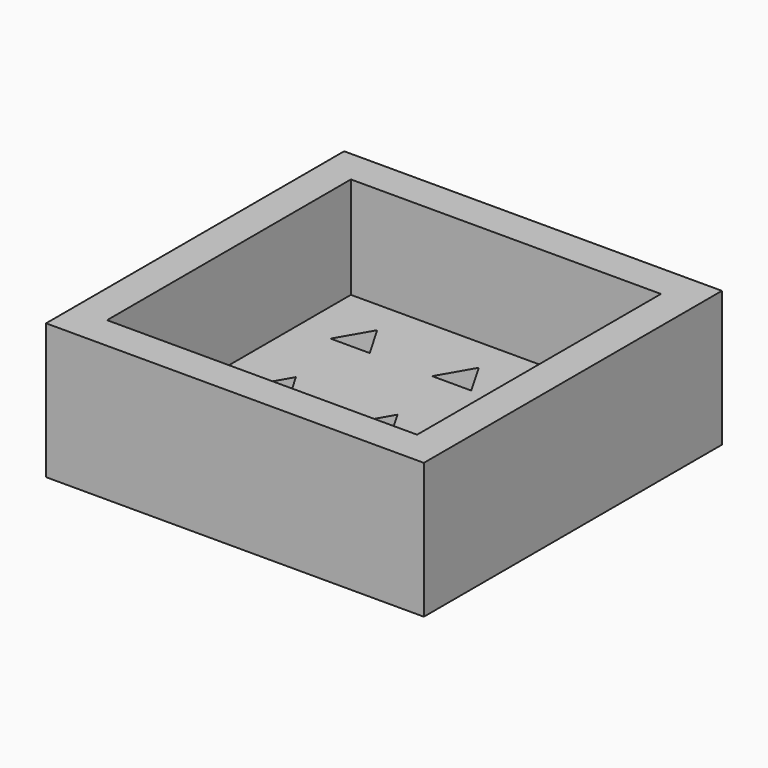
from build123d import *

# Parameters (mm, degrees)
F0_W     = 55.773503
F0_H     = 55
F1_DEPTH = 5
F2_W     = 55.773503
F2_H     = 55
F2_W_2   = 45.773503
F2_H_2   = 45
F3_DEPTH = 15


with BuildPart() as f1:
    # F0 (on Top) → F1 (new body)
    with BuildSketch(Plane.XY):
        with Locations((12.113249, 17.5)):
            Rectangle(F0_W, F0_H)
        Polygon((-5.773503, 0), (-2.886751, 5), (0, 0), align=None, mode=Mode.SUBTRACT)
        Polygon((12.113249, 5), (15, 0), (9.226497, 0), align=None, mode=Mode.SUBTRACT)
        Polygon((27.113249, 5), (30, 0), (24.226497, 0), align=None, mode=Mode.SUBTRACT)
        Polygon((-2.886751, 20), (0, 15), (-5.773503, 15), align=None, mode=Mode.SUBTRACT)
        Polygon((12.113249, 20), (15, 15), (9.226497, 15), align=None, mode=Mode.SUBTRACT)
        Polygon((-2.886751, 35), (0, 30), (-5.773503, 30), align=None, mode=Mode.SUBTRACT)
        Polygon((12.113249, 35), (15, 30), (9.226497, 30), align=None, mode=Mode.SUBTRACT)
        Polygon((27.113249, 20), (30, 15), (24.226497, 15), align=None, mode=Mode.SUBTRACT)
        Polygon((27.113249, 35), (30, 30), (24.226497, 30), align=None, mode=Mode.SUBTRACT)
    extrude(amount=F1_DEPTH)

    # F2 (on face) → F3 (join)
    with BuildSketch(Plane.XY.offset(5)):
        with Locations((12.113249, 17.5)):
            Rectangle(F2_W, F2_H)
        with Locations((12.113249, 17.5)):
            Rectangle(F2_W_2, F2_H_2, mode=Mode.SUBTRACT)
    extrude(amount=F3_DEPTH)


solid = f1.part
